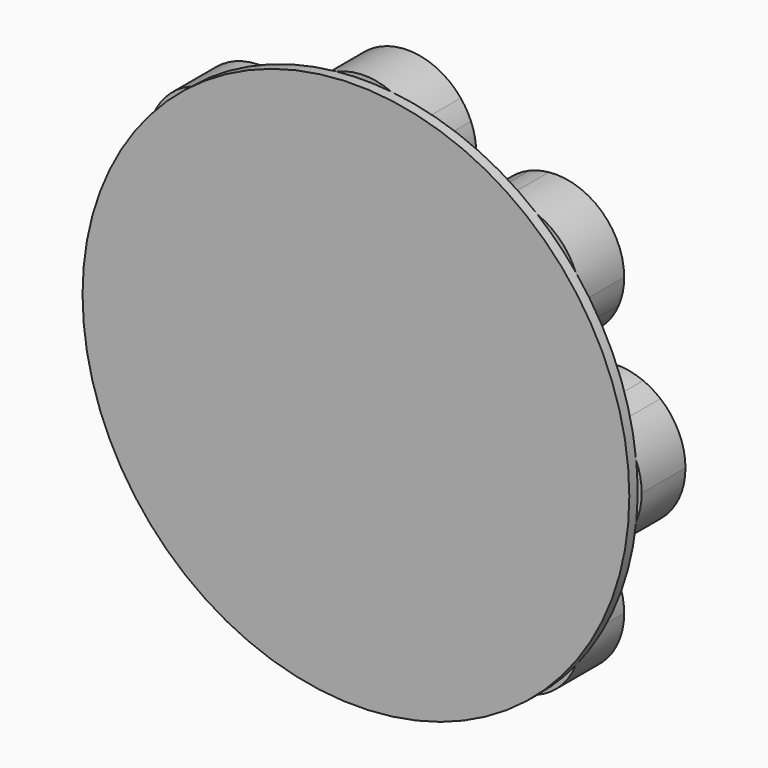
from build123d import *

# Parameters (mm, degrees)
F0_R     = 127
F1_DEPTH = 4.7625
F3_DEPTH = 25.4


with BuildPart() as f1:
    # F0 (on Front) → F1 (new body)
    with BuildSketch(Plane.XZ):
        Circle(F0_R)
    extrude(amount=F1_DEPTH)

    # F2 (on Front) → F3 (join)
    with BuildSketch(Plane.XZ):
        with BuildLine():
            ThreePointArc((-36.9819047186, -68.7319047186), (-51.0925498202, -42.332744528), (-80.8821036962, -39.3987295613))
            Line((-80.8821036962, -39.3987295613), (-68.7319047186, -68.7319047186))
            Line((-68.7319047186, -68.7319047186), (-39.3987295613, -80.8821036962))
            ThreePointArc((-39.3987295613, -80.8821036962), (-37.5919720658, -74.9260224426), (-36.9819047186, -68.7319047186))
        make_face()
        with BuildLine():
            Line((-39.3987295613, -80.8821036962), (-68.7319047186, -68.7319047186))
            Line((-68.7319047186, -68.7319047186), (-56.581705741, -98.0650798758))
            ThreePointArc((-56.581705741, -98.0650798758), (-46.2812644159, -91.1825450212), (-39.3987295613, -80.8821036962))
        make_face()
        with BuildLine():
            ThreePointArc((-80.8821036962, -39.3987295613), (-91.1825450212, -46.2812644159), (-98.0650798758, -56.581705741))
            Line((-98.0650798758, -56.581705741), (-68.7319047186, -68.7319047186))
            Line((-68.7319047186, -68.7319047186), (-80.8821036962, -39.3987295613))
        make_face()
        with BuildLine():
            ThreePointArc((-98.0650798758, -56.581705741), (-99.5286869284, -61.0104601958), (-100.3276376212, -65.6058589181))
            Line((-100.3276376212, -65.6058589181), (-65.6058589181, -100.3276376212))
            ThreePointArc((-65.6058589181, -100.3276376212), (-61.0104601958, -99.5286869284), (-56.581705741, -98.0650798758))
            Line((-56.581705741, -98.0650798758), (-68.7319047186, -68.7319047186))
            Line((-68.7319047186, -68.7319047186), (-98.0650798758, -56.581705741))
        make_face()
        with BuildLine():
            Line((-65.6058589181, -100.3276376212), (-100.3276376212, -65.6058589181))
            ThreePointArc((-100.3276376212, -65.6058589181), (-91.1825450212, -91.1825450212), (-65.6058589181, -100.3276376212))
        make_face()
        with BuildLine():
            Line((-85.0513928431, -29.3331751572), (-97.2015918207, 0))
            Line((-97.2015918207, 0), (-109.3517907983, -29.3331751572))
            ThreePointArc((-109.3517907983, -29.3331751572), (-97.2015918207, -31.75), (-85.0513928431, -29.3331751572))
        make_face()
        with BuildLine():
            Line((-85.0513928431, 29.3331751572), (-97.2015918207, 0))
            Line((-97.2015918207, 0), (-85.0513928431, -29.3331751572))
            ThreePointArc((-85.0513928431, -29.3331751572), (-70.8024316301, -17.6393548984), (-65.4515918207, 0))
            ThreePointArc((-65.4515918207, 0), (-70.8024316301, 17.6393548984), (-85.0513928431, 29.3331751572))
        make_face()
        with BuildLine():
            ThreePointArc((-85.0513928431, 29.3331751572), (-97.2015918207, 31.75), (-109.3517907983, 29.3331751572))
            Line((-109.3517907983, 29.3331751572), (-97.2015918207, 0))
            Line((-97.2015918207, 0), (-85.0513928431, 29.3331751572))
        make_face()
        with BuildLine():
            ThreePointArc((-109.3517907983, 29.3331751572), (-113.5183195775, 27.2364993219), (-117.3327006289, 24.5520051758))
            Line((-117.3327006289, 24.5520051758), (-117.3327006289, -24.5520051758))
            ThreePointArc((-117.3327006289, -24.5520051758), (-113.5183195775, -27.2364993219), (-109.3517907983, -29.3331751572))
            Line((-109.3517907983, -29.3331751572), (-97.2015918207, 0))
            Line((-97.2015918207, 0), (-109.3517907983, 29.3331751572))
        make_face()
        with BuildLine():
            Line((-117.3327006289, -24.5520051758), (-117.3327006289, 24.5520051758))
            ThreePointArc((-117.3327006289, 24.5520051758), (-128.9515918207, 0), (-117.3327006289, -24.5520051758))
        make_face()
        with BuildLine():
            Line((-68.7319047186, 68.7319047186), (-98.0650798758, 56.581705741))
            ThreePointArc((-98.0650798758, 56.581705741), (-91.1825450212, 46.2812644159), (-80.8821036962, 39.3987295613))
            Line((-80.8821036962, 39.3987295613), (-68.7319047186, 68.7319047186))
        make_face()
        with BuildLine():
            Line((-39.3987295613, 80.8821036962), (-68.7319047186, 68.7319047186))
            Line((-68.7319047186, 68.7319047186), (-80.8821036962, 39.3987295613))
            ThreePointArc((-80.8821036962, 39.3987295613), (-51.0925498202, 42.332744528), (-36.9819047186, 68.7319047186))
            ThreePointArc((-36.9819047186, 68.7319047186), (-37.5919720658, 74.9260224426), (-39.3987295613, 80.8821036962))
        make_face()
        with BuildLine():
            Line((-56.581705741, 98.0650798758), (-68.7319047186, 68.7319047186))
            Line((-68.7319047186, 68.7319047186), (-39.3987295613, 80.8821036962))
            ThreePointArc((-39.3987295613, 80.8821036962), (-46.2812644159, 91.1825450212), (-56.581705741, 98.0650798758))
        make_face()
        with BuildLine():
            Line((-65.6058589181, 100.3276376212), (-100.3276376212, 65.6058589181))
            ThreePointArc((-100.3276376212, 65.6058589181), (-99.5286869284, 61.0104601958), (-98.0650798758, 56.581705741))
            Line((-98.0650798758, 56.581705741), (-68.7319047186, 68.7319047186))
            Line((-68.7319047186, 68.7319047186), (-56.581705741, 98.0650798758))
            ThreePointArc((-56.581705741, 98.0650798758), (-61.0104601958, 99.5286869284), (-65.6058589181, 100.3276376212))
        make_face()
        with BuildLine():
            ThreePointArc((-65.6058589181, 100.3276376212), (-91.1825450212, 91.1825450212), (-100.3276376212, 65.6058589181))
            Line((-100.3276376212, 65.6058589181), (-65.6058589181, 100.3276376212))
        make_face()
        with BuildLine():
            Line((0, 97.2015918207), (-29.3331751572, 85.0513928431))
            ThreePointArc((-29.3331751572, 85.0513928431), (0, 65.4515918207), (29.3331751572, 85.0513928431))
            Line((29.3331751572, 85.0513928431), (0, 97.2015918207))
        make_face()
        with BuildLine():
            Line((0, 97.2015918207), (-29.3331751572, 109.3517907983))
            ThreePointArc((-29.3331751572, 109.3517907983), (-31.75, 97.2015918207), (-29.3331751572, 85.0513928431))
            Line((-29.3331751572, 85.0513928431), (0, 97.2015918207))
        make_face()
        with BuildLine():
            Line((29.3331751572, 109.3517907983), (0, 97.2015918207))
            Line((0, 97.2015918207), (29.3331751572, 85.0513928431))
            ThreePointArc((29.3331751572, 85.0513928431), (31.1399326528, 91.0074740967), (31.75, 97.2015918207))
            ThreePointArc((31.75, 97.2015918207), (31.1399326528, 103.3957095447), (29.3331751572, 109.3517907983))
        make_face()
        with BuildLine():
            Line((24.5520051758, 117.3327006289), (-24.5520051758, 117.3327006289))
            ThreePointArc((-24.5520051758, 117.3327006289), (-27.2364993219, 113.5183195775), (-29.3331751572, 109.3517907983))
            Line((-29.3331751572, 109.3517907983), (0, 97.2015918207))
            Line((0, 97.2015918207), (29.3331751572, 109.3517907983))
            ThreePointArc((29.3331751572, 109.3517907983), (27.2364993219, 113.5183195775), (24.5520051758, 117.3327006289))
        make_face()
        with BuildLine():
            ThreePointArc((24.5520051758, 117.3327006289), (0, 128.9515918207), (-24.5520051758, 117.3327006289))
            Line((-24.5520051758, 117.3327006289), (24.5520051758, 117.3327006289))
        make_face()
        with BuildLine():
            Line((68.7319047186, 68.7319047186), (39.3987295613, 80.8821036962))
            ThreePointArc((39.3987295613, 80.8821036962), (46.2812644159, 46.2812644159), (80.8821036962, 39.3987295613))
            Line((80.8821036962, 39.3987295613), (68.7319047186, 68.7319047186))
        make_face()
        with BuildLine():
            ThreePointArc((56.581705741, 98.0650798758), (46.2812644159, 91.1825450212), (39.3987295613, 80.8821036962))
            Line((39.3987295613, 80.8821036962), (68.7319047186, 68.7319047186))
            Line((68.7319047186, 68.7319047186), (56.581705741, 98.0650798758))
        make_face()
        with BuildLine():
            Line((100.3276376212, 65.6058589181), (65.6058589181, 100.3276376212))
            ThreePointArc((65.6058589181, 100.3276376212), (61.0104601958, 99.5286869284), (56.581705741, 98.0650798758))
            Line((56.581705741, 98.0650798758), (68.7319047186, 68.7319047186))
            Line((68.7319047186, 68.7319047186), (98.0650798758, 56.581705741))
            ThreePointArc((98.0650798758, 56.581705741), (99.5286869284, 61.0104601958), (100.3276376212, 65.6058589181))
        make_face()
        with BuildLine():
            Line((98.0650798758, 56.581705741), (68.7319047186, 68.7319047186))
            Line((68.7319047186, 68.7319047186), (80.8821036962, 39.3987295613))
            ThreePointArc((80.8821036962, 39.3987295613), (91.1825450212, 46.2812644159), (98.0650798758, 56.581705741))
        make_face()
        with BuildLine():
            ThreePointArc((100.4819047186, 68.7319047186), (90.04868855, 92.2618266709), (65.6058589181, 100.3276376212))
            Line((65.6058589181, 100.3276376212), (100.3276376212, 65.6058589181))
            ThreePointArc((100.3276376212, 65.6058589181), (100.4433144922, 67.1669797456), (100.4819047186, 68.7319047186))
        make_face()
        with BuildLine():
            Line((97.2015918207, 0), (85.0513928431, 29.3331751572))
            ThreePointArc((85.0513928431, 29.3331751572), (65.4515918207, 0), (85.0513928431, -29.3331751572))
            Line((85.0513928431, -29.3331751572), (97.2015918207, 0))
        make_face()
        with BuildLine():
            Line((109.3517907983, 29.3331751572), (97.2015918207, 0))
            Line((97.2015918207, 0), (109.3517907983, -29.3331751572))
            ThreePointArc((109.3517907983, -29.3331751572), (113.5183195775, -27.2364993219), (117.3327006289, -24.5520051758))
            Line((117.3327006289, -24.5520051758), (117.3327006289, 24.5520051758))
            ThreePointArc((117.3327006289, 24.5520051758), (113.5183195775, 27.2364993219), (109.3517907983, 29.3331751572))
        make_face()
        with BuildLine():
            ThreePointArc((109.3517907983, 29.3331751572), (97.2015918207, 31.75), (85.0513928431, 29.3331751572))
            Line((85.0513928431, 29.3331751572), (97.2015918207, 0))
            Line((97.2015918207, 0), (109.3517907983, 29.3331751572))
        make_face()
        with BuildLine():
            Line((109.3517907983, -29.3331751572), (97.2015918207, 0))
            Line((97.2015918207, 0), (85.0513928431, -29.3331751572))
            ThreePointArc((85.0513928431, -29.3331751572), (97.2015918207, -31.75), (109.3517907983, -29.3331751572))
        make_face()
        with BuildLine():
            ThreePointArc((128.9515918207, 0), (125.9002433976, 13.5812332897), (117.3327006289, 24.5520051758))
            Line((117.3327006289, 24.5520051758), (117.3327006289, -24.5520051758))
            ThreePointArc((117.3327006289, -24.5520051758), (125.9002433976, -13.5812332897), (128.9515918207, 0))
        make_face()
        with BuildLine():
            Line((80.8821036962, -39.3987295613), (68.7319047186, -68.7319047186))
            Line((68.7319047186, -68.7319047186), (98.0650798758, -56.581705741))
            ThreePointArc((98.0650798758, -56.581705741), (91.1825450212, -46.2812644159), (80.8821036962, -39.3987295613))
        make_face()
        with BuildLine():
            ThreePointArc((80.8821036962, -39.3987295613), (46.2812644159, -46.2812644159), (39.3987295613, -80.8821036962))
            Line((39.3987295613, -80.8821036962), (68.7319047186, -68.7319047186))
            Line((68.7319047186, -68.7319047186), (80.8821036962, -39.3987295613))
        make_face()
        with BuildLine():
            Line((68.7319047186, -68.7319047186), (39.3987295613, -80.8821036962))
            ThreePointArc((39.3987295613, -80.8821036962), (46.2812644159, -91.1825450212), (56.581705741, -98.0650798758))
            Line((56.581705741, -98.0650798758), (68.7319047186, -68.7319047186))
        make_face()
        with BuildLine():
            ThreePointArc((56.581705741, -98.0650798758), (61.0104601958, -99.5286869284), (65.6058589181, -100.3276376212))
            Line((65.6058589181, -100.3276376212), (100.3276376212, -65.6058589181))
            ThreePointArc((100.3276376212, -65.6058589181), (99.5286869284, -61.0104601958), (98.0650798758, -56.581705741))
            Line((98.0650798758, -56.581705741), (68.7319047186, -68.7319047186))
            Line((68.7319047186, -68.7319047186), (56.581705741, -98.0650798758))
        make_face()
        with BuildLine():
            Line((100.3276376212, -65.6058589181), (65.6058589181, -100.3276376212))
            ThreePointArc((65.6058589181, -100.3276376212), (90.04868855, -92.2618266709), (100.4819047186, -68.7319047186))
            ThreePointArc((100.4819047186, -68.7319047186), (100.4433144922, -67.1669797456), (100.3276376212, -65.6058589181))
        make_face()
        with BuildLine():
            ThreePointArc((29.3331751572, -85.0513928431), (0, -65.4515918207), (-29.3331751572, -85.0513928431))
            Line((-29.3331751572, -85.0513928431), (0, -97.2015918207))
            Line((0, -97.2015918207), (29.3331751572, -85.0513928431))
        make_face()
        with BuildLine():
            Line((29.3331751572, -85.0513928431), (0, -97.2015918207))
            Line((0, -97.2015918207), (29.3331751572, -109.3517907983))
            ThreePointArc((29.3331751572, -109.3517907983), (31.1399326528, -103.3957095447), (31.75, -97.2015918207))
            ThreePointArc((31.75, -97.2015918207), (31.1399326528, -91.0074740967), (29.3331751572, -85.0513928431))
        make_face()
        with BuildLine():
            ThreePointArc((-29.3331751572, -85.0513928431), (-31.75, -97.2015918207), (-29.3331751572, -109.3517907983))
            Line((-29.3331751572, -109.3517907983), (0, -97.2015918207))
            Line((0, -97.2015918207), (-29.3331751572, -85.0513928431))
        make_face()
        with BuildLine():
            ThreePointArc((-29.3331751572, -109.3517907983), (-27.2364993219, -113.5183195775), (-24.5520051758, -117.3327006289))
            Line((-24.5520051758, -117.3327006289), (24.5520051758, -117.3327006289))
            ThreePointArc((24.5520051758, -117.3327006289), (27.2364993219, -113.5183195775), (29.3331751572, -109.3517907983))
            Line((29.3331751572, -109.3517907983), (0, -97.2015918207))
            Line((0, -97.2015918207), (-29.3331751572, -109.3517907983))
        make_face()
        with BuildLine():
            Line((24.5520051758, -117.3327006289), (-24.5520051758, -117.3327006289))
            ThreePointArc((-24.5520051758, -117.3327006289), (0, -128.9515918207), (24.5520051758, -117.3327006289))
        make_face()
    extrude(amount=-F3_DEPTH)


solid = f1.part
